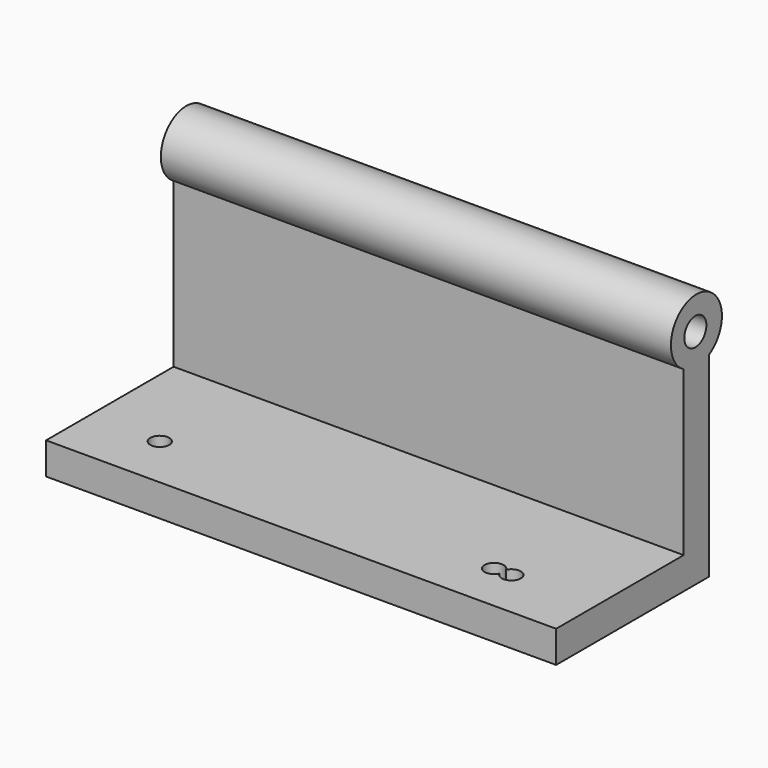
from build123d import *

# Parameters (mm, degrees)
F1_DEPTH = 101.6
F3_D     = 5.5
F5_D     = 3.7973


with BuildPart() as f1:
    # F0 (on Right) → F1 (new body)
    with BuildSketch(Plane.YZ):
        Polygon((-19.05, -3.175), (19.05, -3.175), (19.05, 3.175), (12.7, 3.175), (-19.05, 3.175), align=None)
        with BuildLine():
            Line((12.7, 3.175), (19.05, 3.175))
            Line((19.05, 3.175), (19.05, 35.775738686))
            ThreePointArc((19.05, 35.775738686), (15.875, 34.925), (12.7, 35.775738686))
            Line((12.7, 35.775738686), (12.7, 3.175))
        make_face()
        with BuildLine():
            ThreePointArc((12.7, 35.775738686), (15.875, 34.925), (19.05, 35.775738686))
            Line((19.05, 35.775738686), (19.05, 41.275))
            Line((19.05, 41.275), (12.7, 41.275))
            Line((12.7, 41.275), (12.7, 35.775738686))
        make_face()
        with BuildLine():
            Line((19.05, 41.275), (19.05, 35.775738686))
            ThreePointArc((19.05, 35.775738686), (21.374261314, 38.1), (22.225, 41.275))
            ThreePointArc((22.225, 41.275), (12.7, 46.774261314), (12.7, 35.775738686))
            Line((12.7, 35.775738686), (12.7, 41.275))
            Line((12.7, 41.275), (19.05, 41.275))
        make_face()
    extrude(amount=F1_DEPTH)

    # F3 (through all)
    with Locations(Plane(origin=(0, 0, 0), x_dir=(0, 1, 0), z_dir=(-1, 0, 0))):
        with Locations((15.6024256721, -41.1942079663)):
            Hole(F3_D / 2)

    # F5 (through all)
    with Locations(Plane.XY.offset(3.175)):
        with Locations((14.0319131315, -8.2768965513), (81.3887268305, -9.2282639816), (84.8136544228, -9.2282639816)):
            Hole(F5_D / 2)


solid = f1.part
